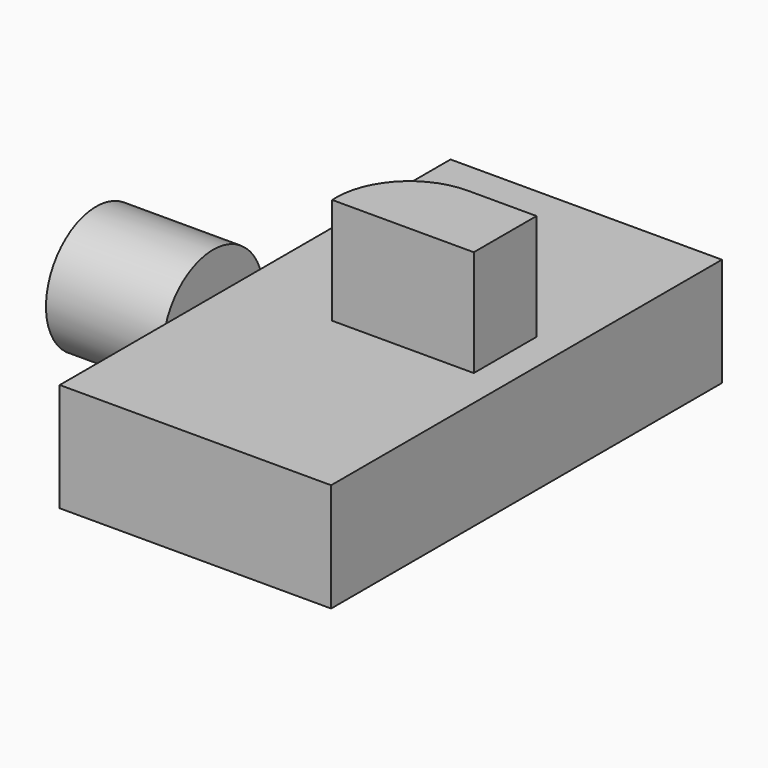
from build123d import *

# Parameters (mm, degrees)
F0_W     = 127
F0_H     = 228.6
F1_DEPTH = 50.8
F2_W     = 29.3338634074
F2_H     = 29.3338634074
F4_DEPTH = 25.4
F6_DEPTH = 49.784


with BuildPart() as f1:
    # F0 (on Top) → F1 (new body)
    with BuildSketch(Plane.XY):
        Rectangle(F0_W, F0_H)
    extrude(amount=F1_DEPTH)

    # F5 (on face) → F6 (join)
    with BuildSketch(Plane.XY.offset(50.8)):
        with BuildLine():
            Line((48.7492531538, 24.2847409099), (16.4515623851, 24.2847409099))
            ThreePointArc((16.4515623851, 24.2847409099), (-7.5820488068, 14.3296932014), (-17.5370965153, -9.7039179905))
            Line((-17.5370965153, -9.7039179905), (-17.5370965153, -12.4137345701))
            Line((-17.5370965153, -12.4137345701), (48.7492531538, -12.4137345701))
            Line((48.7492531538, -12.4137345701), (48.7492531538, 24.2847409099))
        make_face()
    extrude(amount=F6_DEPTH)


with BuildPart() as f3:
    # F2 (on Top) → F3 (revolve)
    with BuildSketch(Plane.XY):
        with Locations((-127.0664017648, 51.193235442)):
            Rectangle(F2_W, F2_H)
    revolve(axis=Axis((-115.2426078916, 36.5263037384, 0), (1, 0, 0)))

    # F4 (add): a face of the model
    f4_faces = [f3.faces().sort_by_distance(p)[0] for p in [
        (-141.7333334684, 36.5263037384, 0),
    ]]
    extrude(f4_faces, amount=F4_DEPTH)


solid = Compound([f1.part, f3.part])
